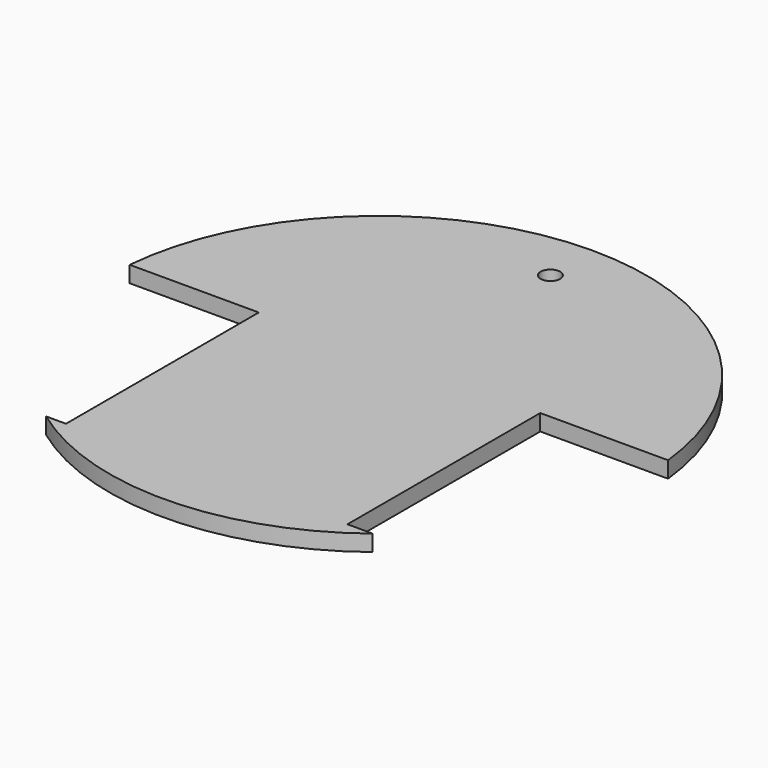
from build123d import *

# Parameters (mm, degrees)
SKETCH_R     = 82.5
PAD_DEPTH    = 5
SKETCH001_W  = 40
SKETCH001_H  = 74
POCKET_DEPTH = 5
SKETCH002_R  = 3
HOLE_DEPTH   = 25


with BuildPart() as part:
    # Sketch → Pad (new body)
    with BuildSketch(Plane.XY):
        Circle(SKETCH_R)
    extrude(amount=PAD_DEPTH)

    # Sketch001 (on Face3 of Pad) → Pocket (cut)
    with BuildSketch(Plane.XY.offset(5)):
        with Locations((-62.53936, -29.626459)):
            Rectangle(SKETCH001_W, SKETCH001_H)
        with Locations((62.773894, -28.234338)):
            Rectangle(SKETCH001_W, SKETCH001_H)
    extrude(amount=-POCKET_DEPTH, mode=Mode.SUBTRACT)

    # Sketch002 (on Face4 of Pocket) → Hole (cut)
    with BuildSketch(Plane.XY.offset(5)):
        with Locations((0, 66.137764)):
            Circle(SKETCH002_R)
    extrude(amount=-HOLE_DEPTH, mode=Mode.SUBTRACT)


solid = part.part
